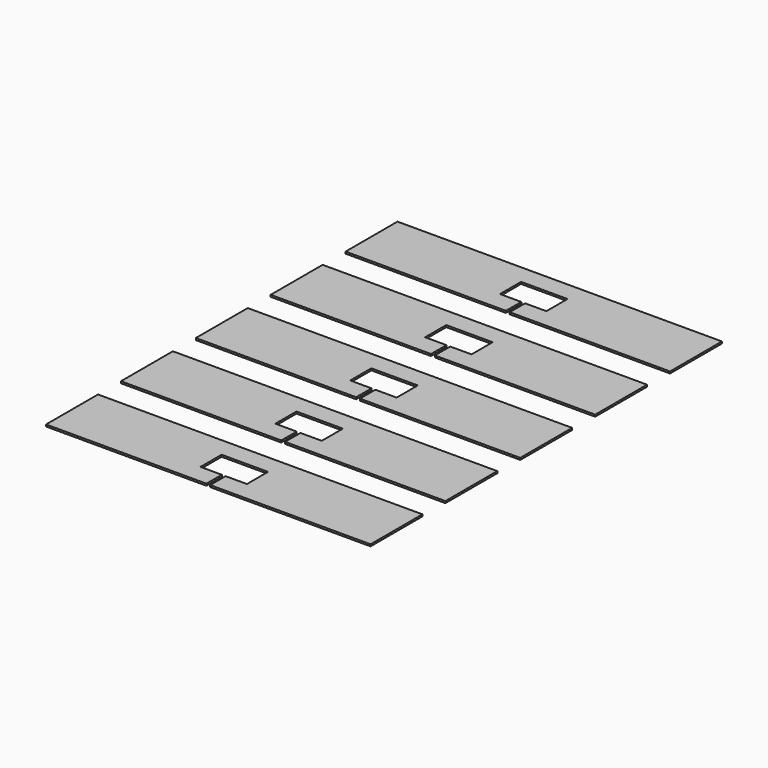
from build123d import *

# Parameters (mm, degrees)
F1_DEPTH = 1


with BuildPart() as f1:
    # F0 (on Top) → F1 (new body)
    with BuildSketch(Plane.XY):
        Polygon((86.666667, 17.333333), (0, 17.333333), (-86.666667, 17.333333), (-86.666667, 0), (-86.666667, -17.333333), (-1, -17.333333), (-1, -7.041667), (-12.393333, -7.041667), (-12.393333, 0), (-12.393333, 7.041667), (0, 7.041667), (12.393333, 7.041667), (12.393333, 0), (12.393333, -7.041667), (1, -7.041667), (1, -17.333333), (86.666667, -17.333333), (86.666667, 0), align=None)
        Polygon((86.666667, 50), (86.666667, 67.333333), (0, 67.333333), (-86.666667, 67.333333), (-86.666667, 50), (-86.666667, 32.666667), (-1, 32.666667), (-1, 42.958333), (-12.393333, 42.958333), (-12.393333, 50), (-12.393333, 57.041667), (0, 57.041667), (12.393333, 57.041667), (12.393333, 50), (12.393333, 42.958333), (1, 42.958333), (1, 32.666667), (86.666667, 32.666667), align=None)
        Polygon((86.666667, 100), (86.666667, 117.333333), (0, 117.333333), (-86.666667, 117.333333), (-86.666667, 100), (-86.666667, 82.666667), (-1, 82.666667), (-1, 92.958333), (-12.393333, 92.958333), (-12.393333, 100), (-12.393333, 107.041667), (0, 107.041667), (12.393333, 107.041667), (12.393333, 100), (12.393333, 92.958333), (1, 92.958333), (1, 82.666667), (86.666667, 82.666667), align=None)
        Polygon((86.666667, 150), (86.666667, 167.333333), (0, 167.333333), (-86.666667, 167.333333), (-86.666667, 150), (-86.666667, 132.666667), (-1, 132.666667), (-1, 142.958333), (-12.393333, 142.958333), (-12.393333, 150), (-12.393333, 157.041667), (0, 157.041667), (12.393333, 157.041667), (12.393333, 150), (12.393333, 142.958333), (1, 142.958333), (1, 132.666667), (86.666667, 132.666667), align=None)
        Polygon((86.666667, 200), (86.666667, 217.333333), (0, 217.333333), (-86.666667, 217.333333), (-86.666667, 200), (-86.666667, 182.666667), (-1, 182.666667), (-1, 192.958333), (-12.393333, 192.958333), (-12.393333, 200), (-12.393333, 207.041667), (0, 207.041667), (12.393333, 207.041667), (12.393333, 200), (12.393333, 192.958333), (1, 192.958333), (1, 182.666667), (86.666667, 182.666667), align=None)
    extrude(amount=F1_DEPTH)


solid = f1.part
